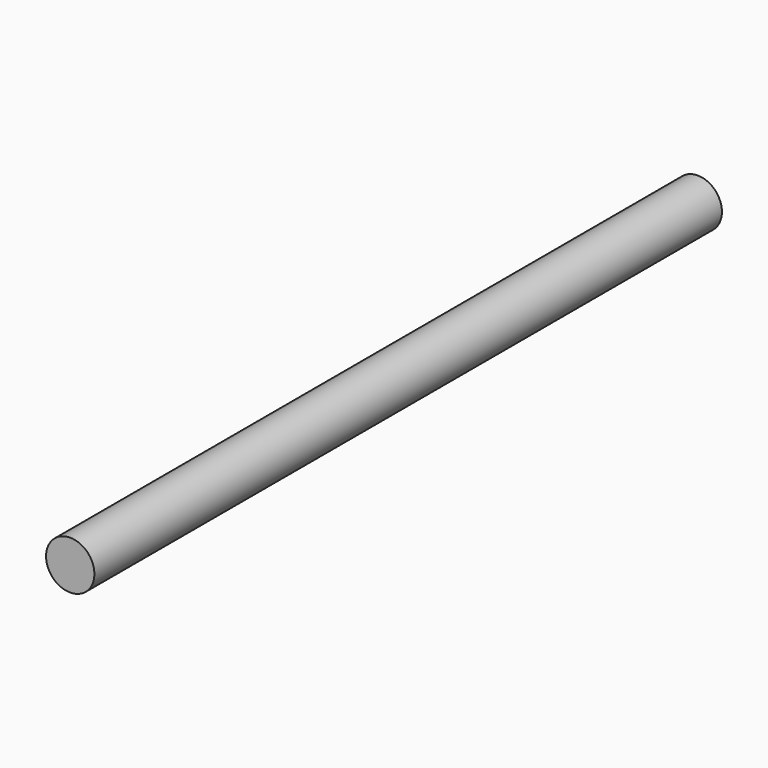
from build123d import *

# Parameters (mm, degrees)
F1_R     = 9
F2_DEPTH = 292


with BuildPart() as f2:
    # F1 (on offset) → F2 (new body)
    with BuildSketch(Plane.XZ.offset(25)):
        Circle(F1_R)
    extrude(amount=-F2_DEPTH)


solid = f2.part
